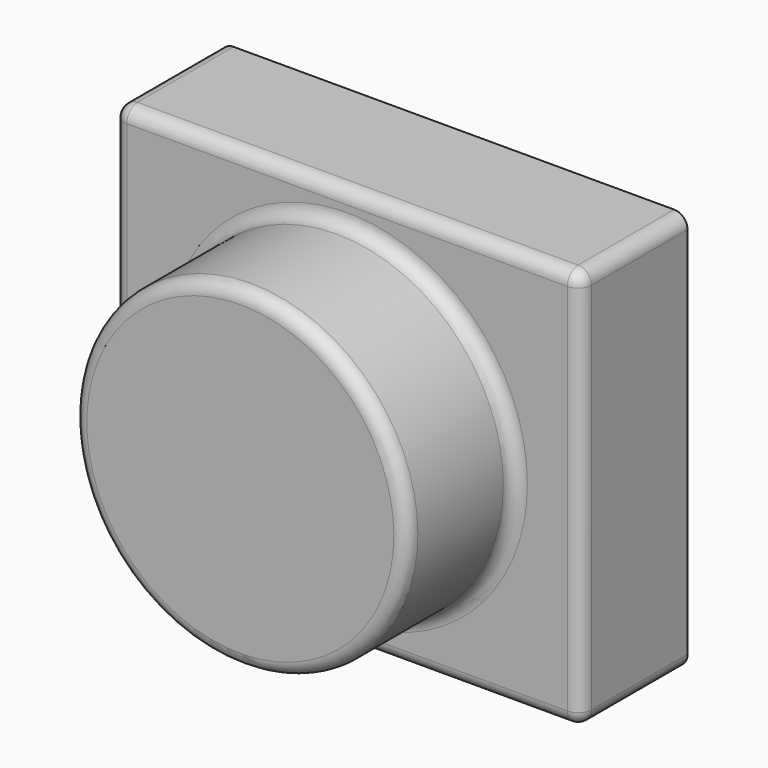
from build123d import *

# Parameters (mm, degrees)
F0_W     = 177.8
F0_H     = 152.4
F1_DEPTH = 50.8
F2_R     = 63.5
F3_DEPTH = 50.8
F4_R     = 5.08
F5_T     = -2.54


with BuildPart() as f1:
    # F0 (on Front) → F1 (new body)
    with BuildSketch(Plane.XZ):
        Rectangle(F0_W, F0_H)
    extrude(amount=F1_DEPTH)

    # F2 (on face) → F3 (join)
    with BuildSketch(Plane.XZ.offset(50.8)):
        Circle(F2_R)
    extrude(amount=F3_DEPTH)

    # F4
    f4_edges = [f1.edges().sort_by_distance(p)[0] for p in [
        (-63.5, -101.6, 0),
        (-63.5, -50.8, 0),
        (88.9, -50.8, 0),
        (0, -50.8, -76.2),
        (0, -50.8, 76.2),
        (-88.9, -50.8, 0),
        (88.9, -25.4, 76.2),
        (-88.9, -25.4, 76.2),
        (-88.9, -25.4, -76.2),
        (88.9, -25.4, -76.2),
    ]]
    fillet(f4_edges, radius=F4_R)

    # F5
    f5_openings = [f1.faces().sort_by_distance(p)[0] for p in [
        (0, 0, 0),
    ]]
    offset(amount=F5_T, openings=f5_openings)


solid = f1.part
